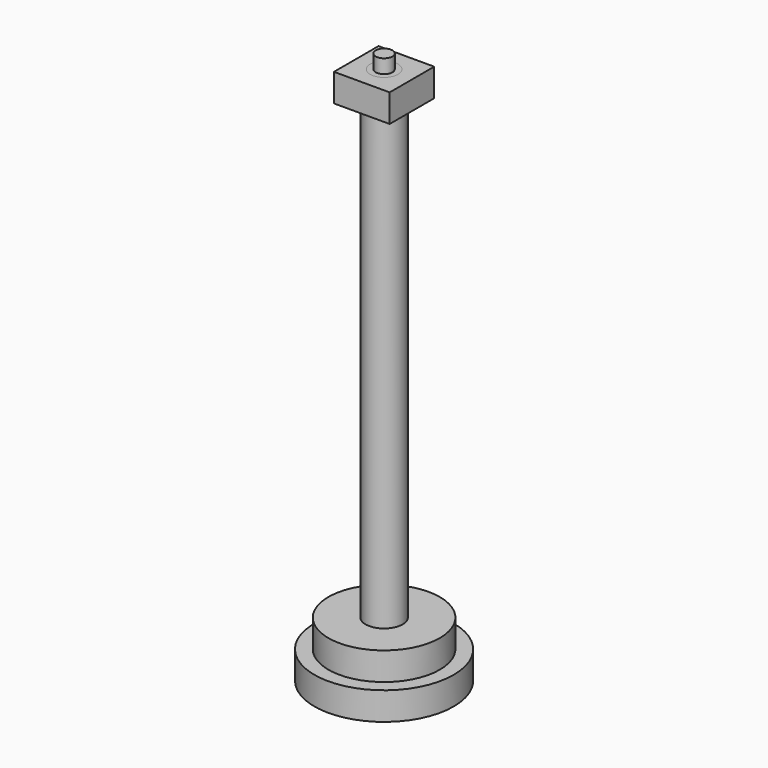
from build123d import *

# Parameters (mm, degrees)
F0_R            = 75
F1_DEPTH        = 30
F2_R            = 60
F3_DEPTH        = 30
F4_R            = 20
F5_DEPTH        = 500
F7_W            = 60
F7_H            = 59.9999963766
F8_DEPTH        = 30
F10_D           = 20
F10_DEPTH       = 20
F10_CSINK_D     = 30
F10_CSINK_ANGLE = 82
F10_TIP         = 6.0086061903
F11_R           = 15
F12_DEPTH       = 30
F13_R           = 9
F14_DEPTH       = 15


with BuildPart() as f1:
    # F0 (on Top) → F1 (new body)
    with BuildSketch(Plane.XY):
        Circle(F0_R)
    extrude(amount=F1_DEPTH)

    # F2 (on face) → F3 (join)
    with BuildSketch(Plane.XY.offset(30)):
        Circle(F2_R)
    extrude(amount=F3_DEPTH)

    # F4 (on face) → F5 (join)
    with BuildSketch(Plane.XY.offset(60)):
        Circle(F4_R)
    extrude(amount=F5_DEPTH)


with BuildPart() as f8:
    # F7 (on offset) → F8 (new body)
    with BuildSketch(Plane.XY.offset(580)):
        Rectangle(F7_W, F7_H)
    extrude(amount=-F8_DEPTH)

    # F10
    with Locations(Plane.XY.offset(580)):
        with Locations((0, 0)):
            CounterSinkHole(F10_D / 2, F10_CSINK_D / 2, depth=F10_DEPTH, counter_sink_angle=F10_CSINK_ANGLE)
            with Locations((0, 0, -(F10_DEPTH + F10_TIP / 2))):  # 118° drill point
                Cone(0, F10_D / 2, F10_TIP, mode=Mode.SUBTRACT)


with BuildPart() as f12:
    # F11 (on face) → F12 (new body, through all)
    with BuildSketch(Plane.XY.offset(580)):
        Circle(F11_R)
    extrude(amount=-F12_DEPTH)

    # F13 (on face) → F14 (join)
    with BuildSketch(Plane.XY.offset(580)):
        Circle(F13_R)
    extrude(amount=F14_DEPTH)

    # F15: cut F8
    add(f8.part, mode=Mode.SUBTRACT)


solid = Compound([f1.part, f8.part, f12.part])
